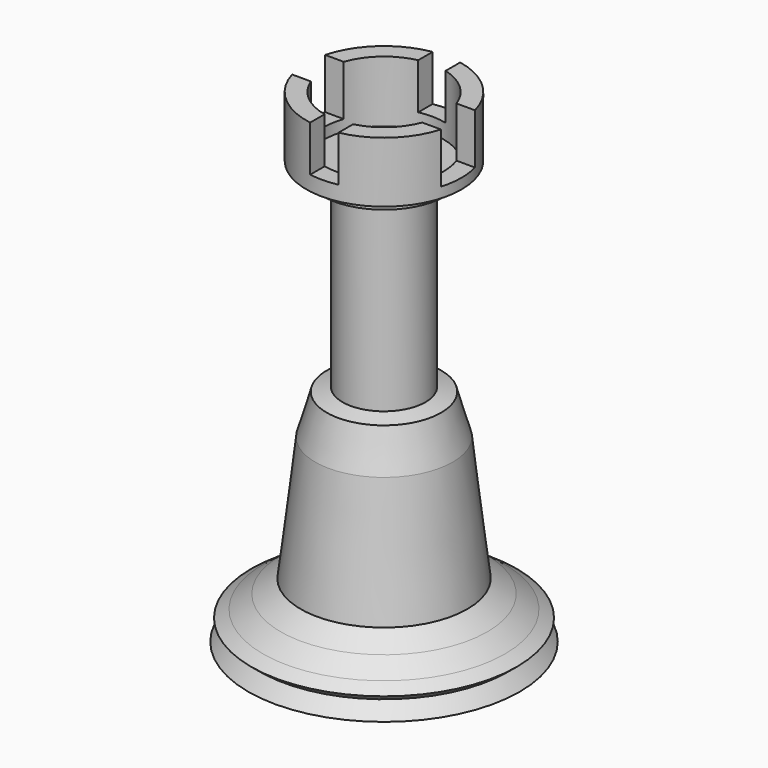
from build123d import *

# Parameters (mm, degrees)
F2_R          = 6.2903170644
F3_DEPTH      = 25
F4_W          = 2.9345224611
F4_H          = 4.864071263
F5_DEPTH      = 25
F5_DEPTH_BACK = 25
F6_W          = 4.4057860505
F6_H          = 5.4571669316
F7_DEPTH      = 25
F7_DEPTH_BACK = 25
F8_R          = 6.4777323638
F9_DEPTH      = 1


with BuildPart() as f1:
    # F0 (on Front) → F1 (revolve)
    with BuildSketch(Plane.XZ):
        Polygon((0, 6.5942350894), (0, -44.3356335163), (14.261810109, -44.3356335163), (13.05461023, -42.8724400699), (13.9565062012, -42.1283356524), (12.7244954929, -41.331898421), (10.8538428321, -39.9014018476), (8.7631130591, -38.4709015489), (7.2225756012, -25.3763329238), (6.0121533461, -21.1948733777), (4.3615777977, -20.7547210157), (4.3615777977, 0), (8.1534618512, 0.1579910895), (8.1534618512, 6.53480459), (4.8017329536, 6.53480459), (4.8017329536, 2.9035371263), (1.8306958955, 2.9035371263), (1.7206574557, 6.6448426805), align=None)
    revolve(axis=Axis((0, 0, -18.8706992134), (0, 0, -1)))

    # F2 (on Top) → F3 (cut)
    with BuildSketch(Plane.XY):
        Circle(F2_R)
    extrude(amount=F3_DEPTH, mode=Mode.SUBTRACT)

    # F4 (on Front) → F5 (cut, two sides)
    with BuildSketch(Plane.XZ) as f5_sk:
        with Locations((0.1430150587, 4.1471930454)):
            Rectangle(F4_W, F4_H)
    extrude(amount=-F5_DEPTH, mode=Mode.SUBTRACT)
    extrude(f5_sk.sketch, amount=F5_DEPTH_BACK, mode=Mode.SUBTRACT)

    # F6 (on Right) → F7 (cut, two sides)
    with BuildSketch(Plane.YZ) as f7_sk:
        with Locations((-0.0914762495, 3.9688184042)):
            Rectangle(F6_W, F6_H)
    extrude(amount=-F7_DEPTH, mode=Mode.SUBTRACT)
    extrude(f7_sk.sketch, amount=F7_DEPTH_BACK, mode=Mode.SUBTRACT)


with BuildPart() as f9:
    # F8 (on Top) → F9 (new body)
    with BuildSketch(Plane.XY):
        Circle(F8_R)
    extrude(amount=-F9_DEPTH)


solid = Compound([f1.part, f9.part])
